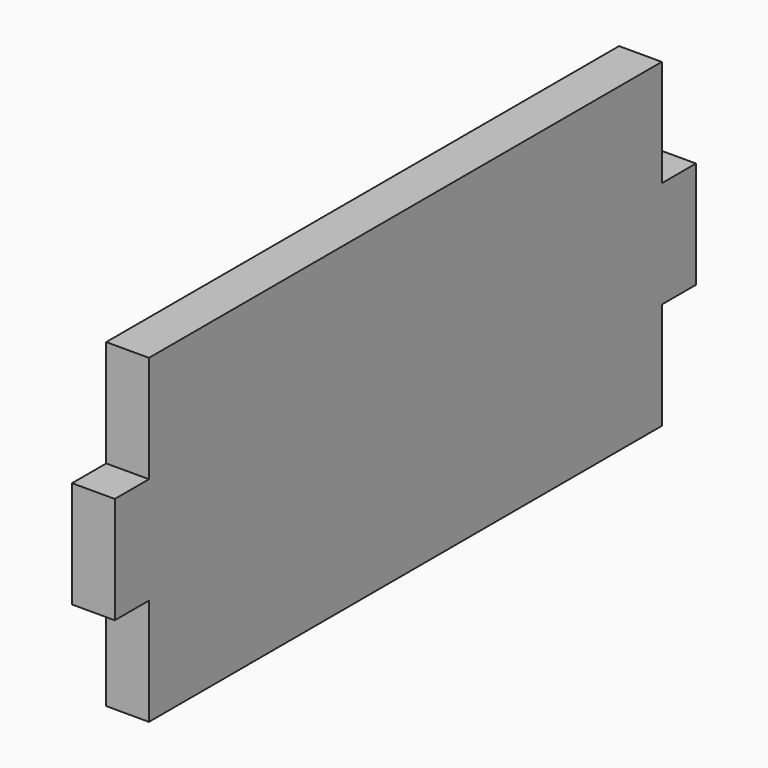
from build123d import *

# Parameters (mm, degrees)
F0_W     = 12
F0_H     = 30
F1_DEPTH = 6
F2_DEPTH = 6


with BuildPart() as f1:
    # F0 (on Right) → F1 (new body, symmetric)
    with BuildSketch(Plane.YZ):
        Polygon((0, 30), (0, 0), (90, 0), (180, 0), (180, 30), (180, 60), (180, 90), (90, 90), (0, 90), (0, 60), align=None)
        with Locations((-6, 45)):
            Rectangle(F0_W, F0_H)
        with Locations((186, 45)):
            Rectangle(F0_W, F0_H)
    extrude(amount=F1_DEPTH, both=True)

    # F0 (on Right) → F2 (join, symmetric)
    with BuildSketch(Plane.YZ):
        Polygon((0, 30), (0, 0), (90, 0), (180, 0), (180, 30), (180, 60), (180, 90), (90, 90), (0, 90), (0, 60), align=None)
        with Locations((-6, 45)):
            Rectangle(F0_W, F0_H)
        with Locations((186, 45)):
            Rectangle(F0_W, F0_H)
    extrude(amount=F2_DEPTH, both=True)


solid = f1.part
